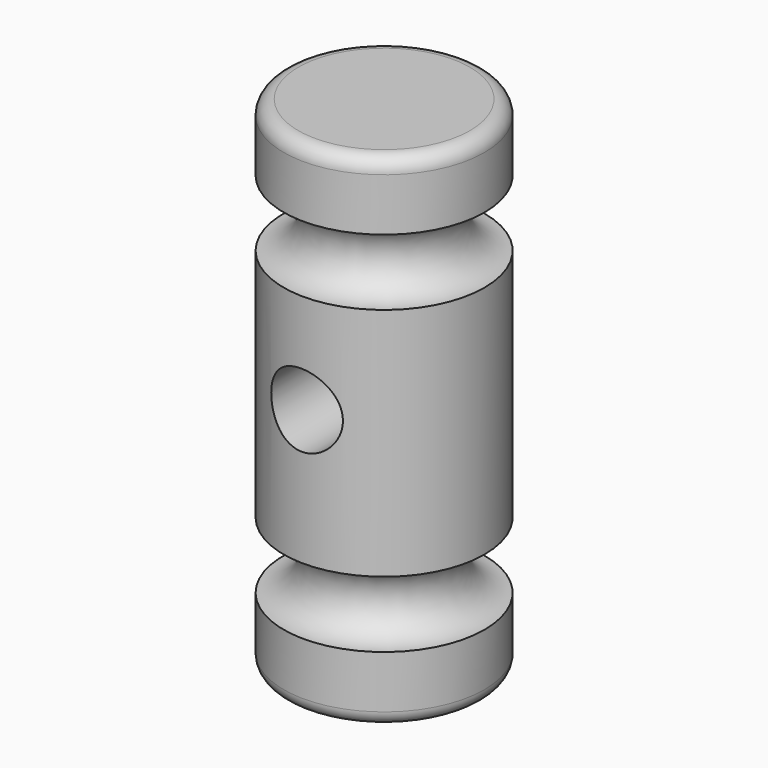
from build123d import *

# Parameters (mm, degrees)
F2_R     = 1.839631
F3_R     = 1.839631
F4_R     = 4.623379
F5_DEPTH = 25.4


with BuildPart() as f1:
    # F0 (on Front) → F1 (revolve)
    with BuildSketch(Plane.XZ):
        with BuildLine():
            Line((-12.7, 0), (0, 0))
            Line((0, 0), (0, 8.509))
            ThreePointArc((0, 8.509), (-4.191, 12.7), (0, 16.891))
            Line((0, 16.891), (0, 46.609))
            ThreePointArc((0, 46.609), (-4.191, 50.8), (0, 54.991))
            Line((0, 54.991), (0, 63.5))
            Line((0, 63.5), (-12.7, 63.5))
            Line((-12.7, 63.5), (-12.7, 0))
        make_face()
    revolve(axis=Axis((-12.7, 0, 31.75), (0, 0, 1)))

    # F2
    f2_edges = [f1.edges().sort_by_distance(p)[0] for p in [
        (-25.4, 0, 63.5),
    ]]
    fillet(f2_edges, radius=F2_R)

    # F3
    f3_edges = [f1.edges().sort_by_distance(p)[0] for p in [
        (-25.4, 0, 0),
    ]]
    fillet(f3_edges, radius=F3_R)

    # F4 (on Front) → F5 (cut)
    with BuildSketch(Plane.XZ):
        with Locations((-12.984917, 33.909)):
            Circle(F4_R)
    extrude(amount=F5_DEPTH, mode=Mode.SUBTRACT)


solid = f1.part
